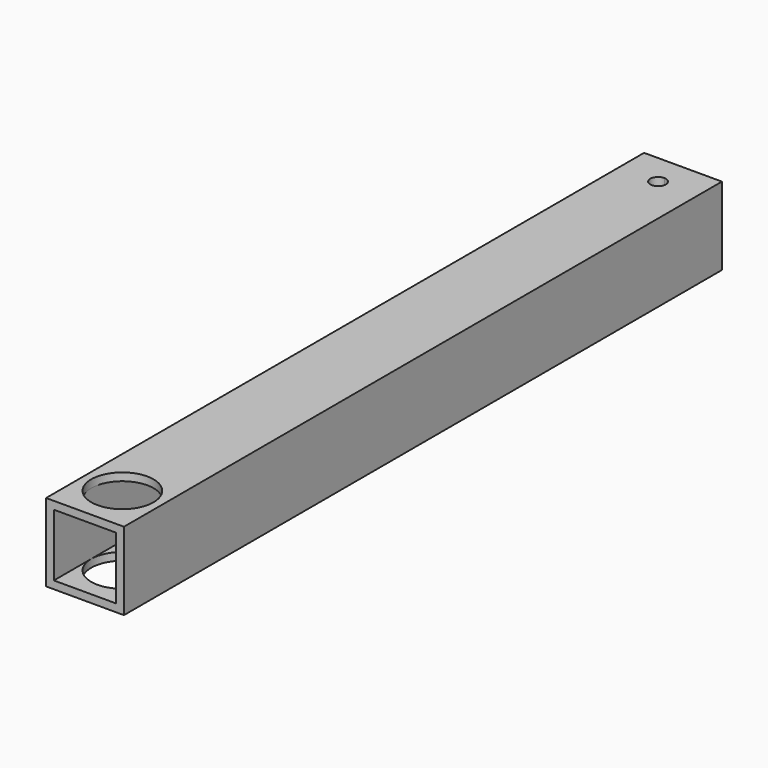
from build123d import *

# Parameters (mm, degrees)
F0_W     = 31.75
F0_H     = 31.75
F0_W_2   = 25.4
F0_H_2   = 25.4
F1_DEPTH = 304.8
F2_R     = 12.7
F3_DEPTH = 31.751


with BuildPart() as f1:
    # F0 (on Front) → F1 (new body)
    with BuildSketch(Plane.XZ):
        Rectangle(F0_W, F0_H)
        Rectangle(F0_W_2, F0_H_2, mode=Mode.SUBTRACT)
    extrude(amount=F1_DEPTH)

    # F2 (on face) → F3 (cut, through all)
    with BuildSketch(Plane(origin=(0, 0, -15.875), x_dir=(1, 0, 0), z_dir=(0, 0, -1))):
        with Locations((0, 285.75)):
            Circle(F2_R)
        with BuildLine():
            ThreePointArc((0, 15.875), (-3.175, 12.7), (0, 9.525))
            Line((0, 9.525), (0, 15.875))
        make_face()
        with BuildLine():
            Line((0, 15.875), (0, 9.525))
            ThreePointArc((0, 9.525), (2.245064, 10.454936), (3.175, 12.7))
            ThreePointArc((3.175, 12.7), (2.245064, 14.945064), (0, 15.875))
        make_face()
    extrude(amount=-F3_DEPTH, mode=Mode.SUBTRACT)


solid = f1.part
